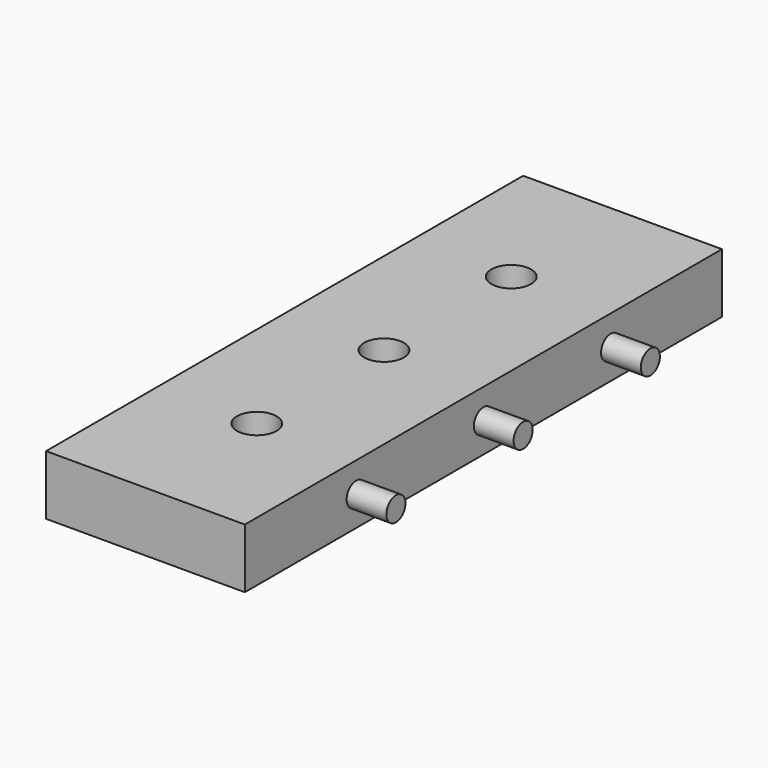
from build123d import *

# Parameters (mm, degrees)
F0_W     = 50
F0_H     = 150
F1_DEPTH = 15
F2_R     = 5
F3_DEPTH = 25
F4_R     = 3
F5_DEPTH = 10
F6_R     = 3.1
F7_DEPTH = 10.2


with BuildPart() as f1:
    # F0 (on Top) → F1 (new body)
    with BuildSketch(Plane.XY):
        Rectangle(F0_W, F0_H)
    extrude(amount=F1_DEPTH)

    # F2 (on face) → F3 (cut)
    with BuildSketch(Plane.XY.offset(15)):
        with Locations((0, 40)):
            Circle(F2_R)
        Circle(F2_R)
        with Locations((0, -40)):
            Circle(F2_R)
    extrude(amount=-F3_DEPTH, mode=Mode.SUBTRACT)

    # F4 (on face) → F5 (join)
    with BuildSketch(Plane.YZ.offset(25)):
        with Locations((-40, 7.5)):
            Circle(F4_R)
        with Locations((0, 7.5)):
            Circle(F4_R)
        with Locations((40, 7.5)):
            Circle(F4_R)
    extrude(amount=F5_DEPTH)

    # F6 (on face) → F7 (cut)
    with BuildSketch(Plane(origin=(-25, 0, 0), x_dir=(0, -1, 0), z_dir=(-1, 0, 0))):
        with Locations((-40, 7.5)):
            Circle(F6_R)
        with Locations((0, 7.5)):
            Circle(F6_R)
        with Locations((40, 7.5)):
            Circle(F6_R)
    extrude(amount=-F7_DEPTH, mode=Mode.SUBTRACT)


solid = f1.part
